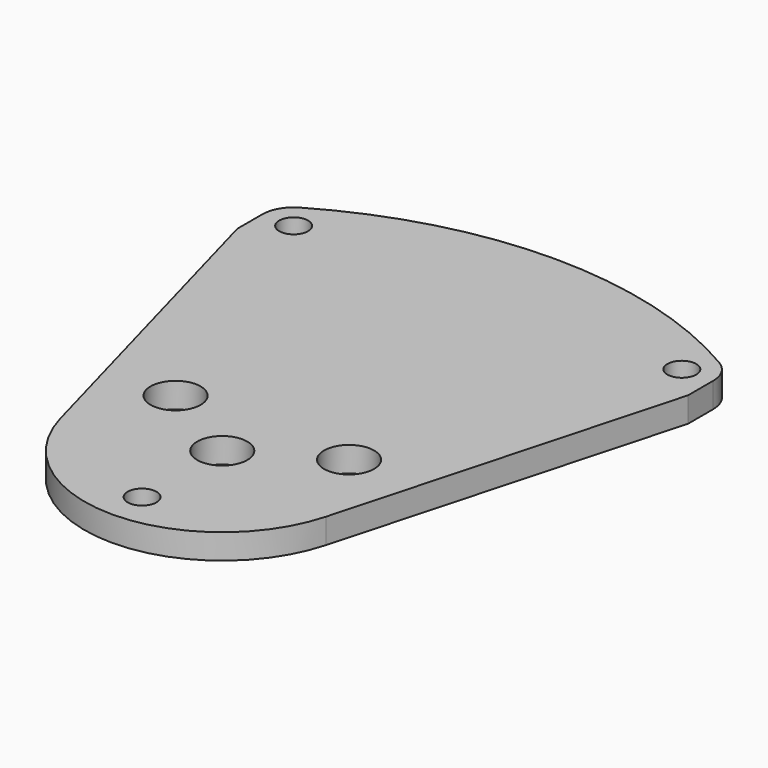
from build123d import *

# Parameters (mm, degrees)
F0_R     = 1.8288
F0_R_2   = 3.175
F1_DEPTH = 3.175


with BuildPart() as f1:
    # F0 (on Top) → F1 (new body)
    with BuildSketch(Plane.XY):
        with BuildLine():
            Line((-28.575, 0), (-16.838773, -42.725434))
            ThreePointArc((-16.838773, -42.725434), (0, -55.5625), (16.838773, -42.725434))
            Line((16.838773, -42.725434), (28.575, 0))
            Line((28.575, 0), (28.575, 3.96875))
            ThreePointArc((28.575, 3.96875), (28.048878, 5.943411), (26.610006, 7.394526))
            ThreePointArc((26.610006, 7.394526), (0, 14.605259), (-26.610006, 7.394526))
            ThreePointArc((-26.610006, 7.394526), (-28.048878, 5.943411), (-28.575, 3.96875))
            Line((-28.575, 3.96875), (-28.575, 0))
        make_face()
        with Locations((0, -50.8)):
            Circle(F0_R, mode=Mode.SUBTRACT)
        with Locations((0, -38.1)):
            Circle(F0_R_2, mode=Mode.SUBTRACT)
        with Locations((-10.998523, -31.75)):
            Circle(F0_R_2, mode=Mode.SUBTRACT)
        with Locations((10.998523, -31.75)):
            Circle(F0_R_2, mode=Mode.SUBTRACT)
        with Locations((-24.60625, 3.96875)):
            Circle(F0_R, mode=Mode.SUBTRACT)
        with Locations((24.60625, 3.96875)):
            Circle(F0_R, mode=Mode.SUBTRACT)
    extrude(amount=F1_DEPTH)


solid = f1.part
